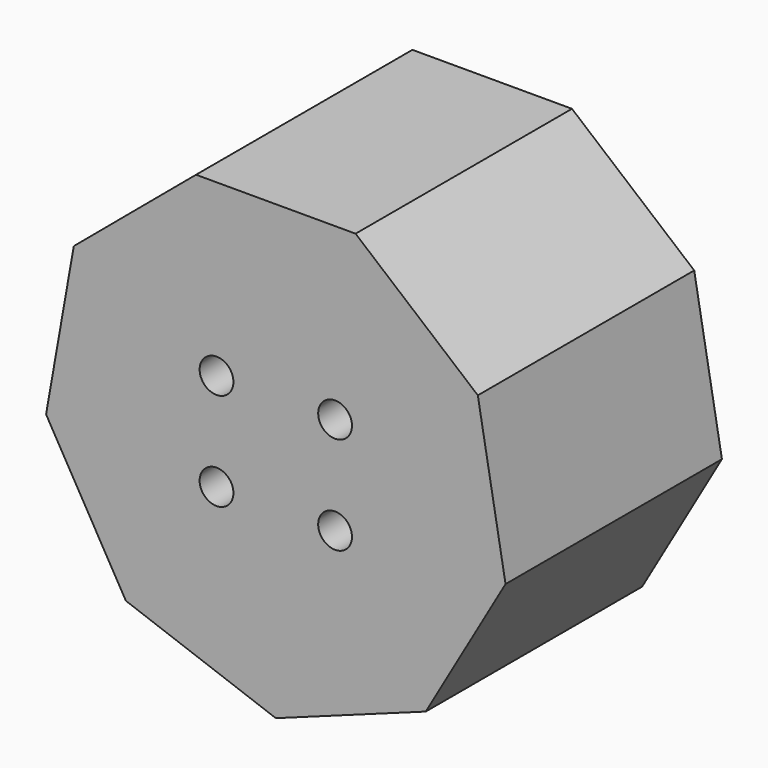
from build123d import *

# Parameters (mm, degrees)
F1_DEPTH      = 25.4
F1_DEPTH_BACK = 25.4
F3_D          = 6.35


with BuildPart() as f1:
    # F0 (on Front) → F1 (new body, two sides)
    with BuildSketch(Plane.XZ) as f1_sk:
        Polygon((14.984346, 41.169152), (-14.984346, 41.169152), (-37.941695, 21.905648), (-43.145704, -7.607752), (-28.161358, -33.5614), (0, -43.811296), (28.161358, -33.5614), (43.145704, -7.607752), (37.941695, 21.905648), align=None)
    extrude(amount=F1_DEPTH)
    extrude(f1_sk.sketch, amount=-F1_DEPTH_BACK)

    # F3 (through all)
    with Locations(Plane.XZ.offset(25.4)):
        with Locations((-11.131829, -9.183757), (-11.131829, 9.183757), (11.131829, 9.183757), (11.131829, -9.183757)):
            Hole(F3_D / 2)


solid = f1.part
